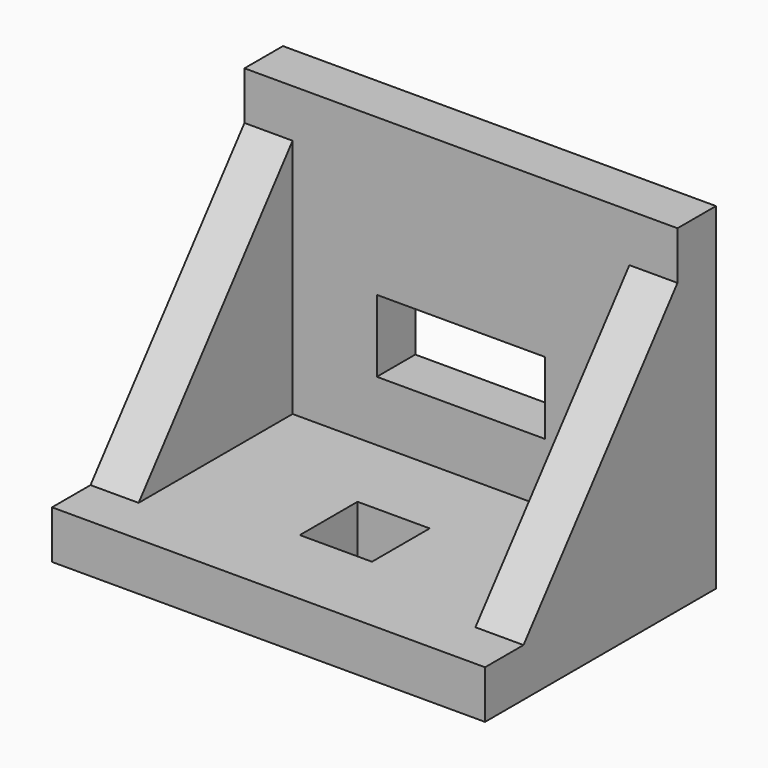
from build123d import *

# Parameters (mm, degrees)
SKETCH_W        = 90
SKETCH_H        = 60
PAD_DEPTH       = 10
SKETCH001_W     = 90
SKETCH001_H     = 10
PAD001_DEPTH    = 60
PAD002_DEPTH    = 10
PAD003_DEPTH    = 10
SKETCH004_W     = 15
SKETCH004_H     = 15
POCKET_DEPTH    = 10.001
SKETCH005_W     = 35
SKETCH005_H     = 15
POCKET001_DEPTH = 10.001


with BuildPart() as part:
    # Sketch → Pad (new body)
    with BuildSketch(Plane.XY):
        Rectangle(SKETCH_W, SKETCH_H)
    extrude(amount=PAD_DEPTH)

    # Sketch001 → Pad001 (new body)
    with BuildSketch(Plane.XY.offset(10)):
        with Locations((0, 25)):
            Rectangle(SKETCH001_W, SKETCH001_H)
    extrude(amount=PAD001_DEPTH)

    # Sketch002 → Pad002 (new body)
    with BuildSketch(Plane.YZ.offset(45)):
        Polygon((20, 60), (-20, 10), (20, 10), align=None)
    extrude(amount=-PAD002_DEPTH)

    # Sketch003 → Pad003 (new body)
    with BuildSketch(Plane(origin=(-45, 0, 0), x_dir=(0, -1, 0), z_dir=(-1, 0, 0))):
        Polygon((-20, 60), (20, 10), (-20, 10), align=None)
    extrude(amount=-PAD003_DEPTH)

    # Sketch004 → Pocket (cut, through all)
    with BuildSketch(Plane.XY.offset(10)):
        with Locations((0, -5)):
            Rectangle(SKETCH004_W, SKETCH004_H)
    extrude(amount=-POCKET_DEPTH, mode=Mode.SUBTRACT)

    # Sketch005 → Pocket001 (cut, through all)
    with BuildSketch(Plane.XZ.offset(-20)):
        with Locations((0, 30)):
            Rectangle(SKETCH005_W, SKETCH005_H)
    extrude(amount=-POCKET001_DEPTH, mode=Mode.SUBTRACT)


solid = part.part
